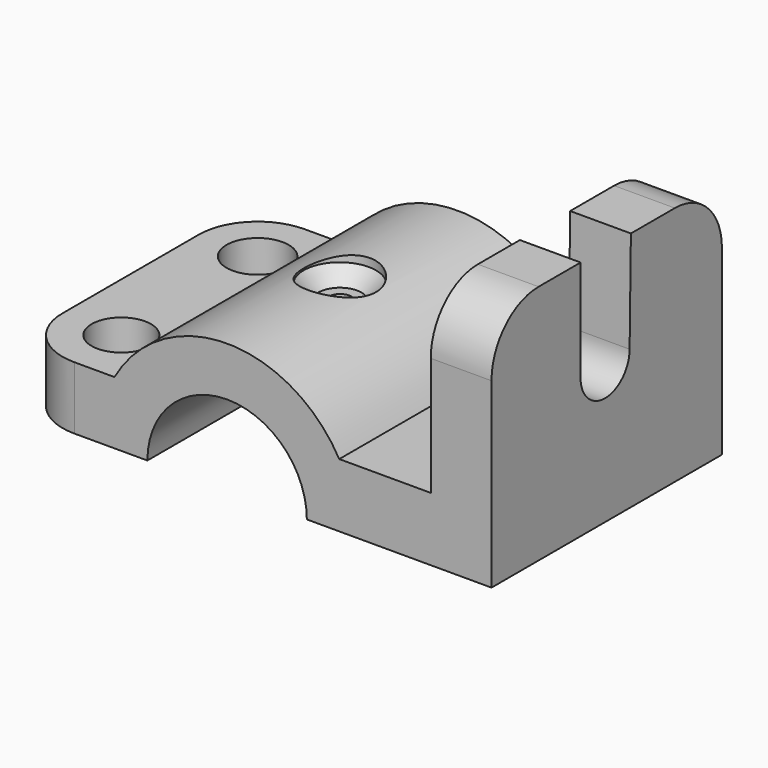
from build123d import *

# Parameters (mm, degrees)
F0_W      = 41.100144
F0_H      = 24.865199
F1_DEPTH  = 26.924
F3_DEPTH  = 33.02
F5_DEPTH  = 9.906
F6_R      = 5.08
F7_R      = 2.565784
F7_R_2    = 2.684089
F7_R_3    = 0.988896
F8_DEPTH  = 25.4
F10_R     = 3.124408
F11_DEPTH = 20.574
F12_SIZE  = 1.27


with BuildPart() as f1:
    # F0 (on Top) → F1 (new body)
    with BuildSketch(Plane.XY):
        with Locations((20.550072, 12.4326)):
            Rectangle(F0_W, F0_H)
    extrude(amount=F1_DEPTH)

    # F2 (on Front) → F3 (cut)
    with BuildSketch(Plane.XZ):
        with BuildLine():
            Line((11.39266, 0), (25.158048, 0))
            ThreePointArc((25.158048, 0), (18.275354, 6.882694), (11.39266, 0))
        make_face()
        with BuildLine():
            ThreePointArc((8.551842, 5.420331), (18.231203, 11.132148), (27.955566, 5.497288))
            Line((27.955566, 5.497288), (35.856735, 5.497288))
            Line((35.856735, 5.497288), (35.856735, 20.804519))
            Line((35.856735, 20.804519), (43.18231, 20.804519))
            Line((43.18231, 20.804519), (42.240448, 32.735568))
            Line((42.240448, 32.735568), (-4.643232, 32.735568))
            Line((-4.643232, 32.735568), (0, 5.420331))
            Line((0, 5.420331), (8.551842, 5.420331))
        make_face()
    extrude(amount=-F3_DEPTH, mode=Mode.SUBTRACT)

    # F4 (on face) → F5 (cut)
    with BuildSketch(Plane.YZ.offset(41.100144)):
        with BuildLine():
            Line((9.614374, 20.804519), (9.614374, 12.291135))
            ThreePointArc((9.614374, 12.291135), (12.13957, 9.414848), (14.903929, 12.062103))
            Line((14.903929, 12.062103), (15.042416, 20.804519))
            Line((15.042416, 20.804519), (9.614374, 20.804519))
        make_face()
    extrude(amount=-F5_DEPTH, mode=Mode.SUBTRACT)

    # F6
    f6_edges = [f1.edges().sort_by_distance(p)[0] for p in [
        (38.47844, 0, 20.804519),
        (38.47844, 24.865199, 20.804519),
        (0, 24.865199, 2.710165),
        (0, 0, 2.710165),
    ]]
    fillet(f6_edges, radius=F6_R)

    # F7 (on face) → F8 (cut)
    with BuildSketch(Plane(origin=(0, 0, 0), x_dir=(1, 0, 0), z_dir=(0, 0, -1))):
        with Locations((5.08, -5.08)):
            Circle(F7_R)
        with Locations((5.08, -19.785199)):
            Circle(F7_R_2)
        with Locations((17.942235, -12.616471)):
            Circle(F7_R_3)
    extrude(amount=-F8_DEPTH, mode=Mode.SUBTRACT)

    # F10 (on offset) → F11 (cut)
    with BuildSketch(Plane.XY.offset(29.718)):
        with Locations((17.889135, 12.645945)):
            Circle(F10_R)
    extrude(amount=-F11_DEPTH, mode=Mode.SUBTRACT)

    # F12
    f12_edges = [f1.edges().sort_by_distance(p)[0] for p in [
        (14.764727, 12.645945, 9.144),
    ]]
    chamfer(f12_edges, length=F12_SIZE)


solid = f1.part
